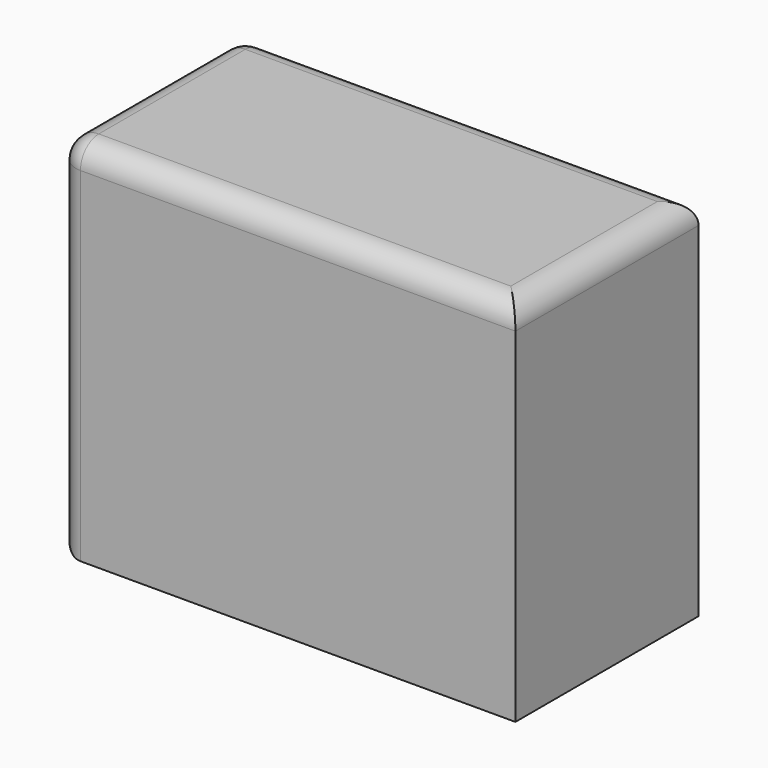
from build123d import *

# Parameters (mm, degrees)
F0_W     = 101.6
F0_H     = 81.420234
F1_DEPTH = 50.8
F2_R     = 5.08


with BuildPart() as f1:
    # F0 (on Front) → F1 (new body)
    with BuildSketch(Plane.XZ):
        with Locations((0, -11.328264)):
            Rectangle(F0_W, F0_H)
    extrude(amount=F1_DEPTH)

    # F2
    f2_edges = [f1.edges().sort_by_distance(p)[0] for p in [
        (-50.8, -25.4, 29.381853),
        (-50.8, -25.4, -52.038381),
        (-50.8, 0, -11.328264),
        (-50.8, -50.8, -11.328264),
        (0, 0, 29.381853),
        (0, -50.8, 29.381853),
        (50.8, -25.4, 29.381853),
    ]]
    fillet(f2_edges, radius=F2_R)


solid = f1.part
